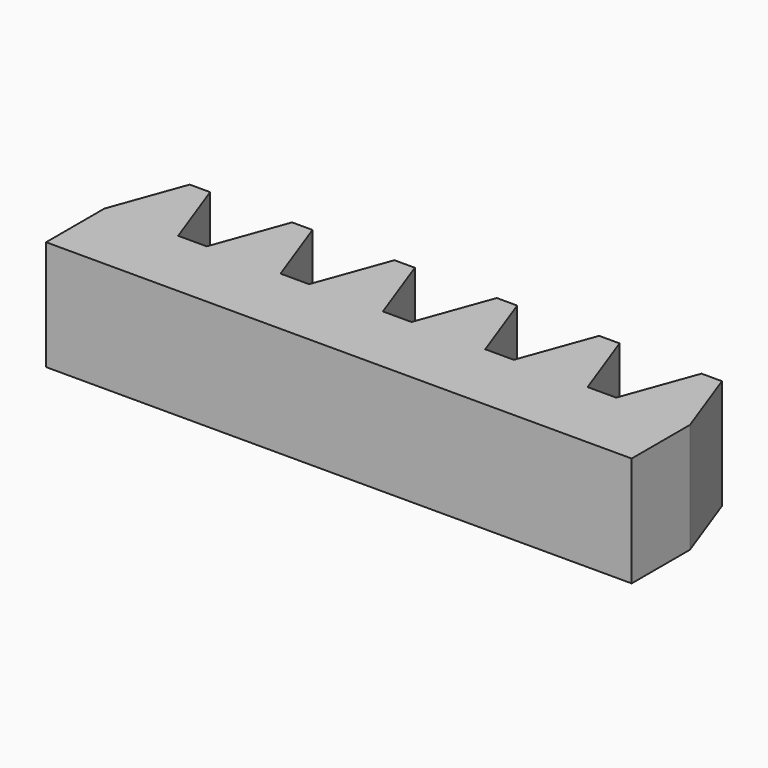
from build123d import *

# Parameters (mm, degrees)
F1_DEPTH = 15


with BuildPart() as f1:
    # F0 (on Top) → F1 (new body)
    with BuildSketch(Plane.XY):
        Polygon((5.589702, 10.04253), (1.95, 0.04253), (-1.948, 0.04253), (-5.587702, 10.04253), (-8.372702, 10.04253), (-12.012405, 0.04253), (-15.910405, 0.04253), (-19.550107, 10.04253), (-22.335107, 10.04253), (-25.974809, 0.04253), (-29.872809, 0.04253), (-33.512512, 10.04253), (-36.297512, 10.04253), (-39.937214, 0.04253), (-39.937214, -9.898053), (39.939214, -9.898053), (39.939214, 0.04253), (36.299512, 10.04253), (33.514512, 10.04253), (29.874809, 0.04253), (25.976809, 0.04253), (22.337107, 10.04253), (19.552107, 10.04253), (15.912405, 0.04253), (12.014405, 0.04253), (8.374702, 10.04253), align=None)
    extrude(amount=F1_DEPTH)


solid = f1.part
